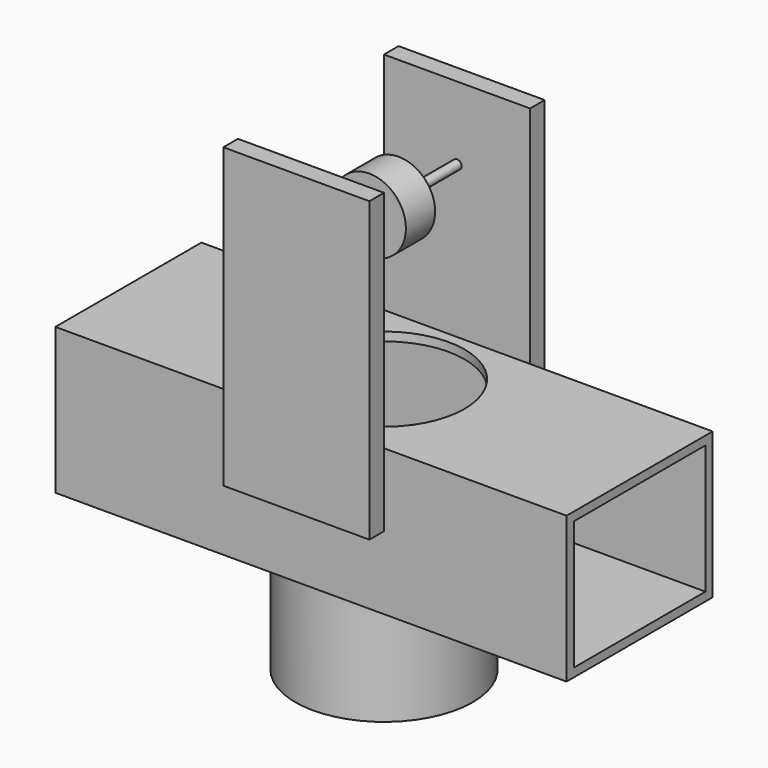
from build123d import *

# Parameters (mm, degrees)
F0_W      = 177.8
F0_H      = 50.8
F1_DEPTH  = 63.5
F2_W      = 50.8
F2_H      = 78.232
F3_DEPTH  = 6.35
F4_W      = 50.8
F4_H      = 78.232
F4_H_2    = 25.4
F5_DEPTH  = 6.35
F6_W      = 57.2448244095
F6_H      = 44.7886691809
F7_DEPTH  = 177.8
F8_R      = 28.0061768785
F9_DEPTH  = 50.801
F10_R     = 30.8612642365
F10_R_2   = 28.0061768785
F11_DEPTH = 38.1
F14_R     = 12.7
F15_DEPTH = 6.35
F16_R     = 1.5875
F17_DEPTH = 25.4
F18_R     = 1.5875
F19_DEPTH = 25.4


with BuildPart() as f1:
    # F0 (on Front) → F1 (new body)
    with BuildSketch(Plane.XZ):
        with Locations((88.9, 25.4)):
            Rectangle(F0_W, F0_H)
    extrude(amount=F1_DEPTH)

    # F2 (on face) → F3 (join)
    with BuildSketch(Plane.XZ.offset(63.5)):
        with Locations((88.9, 89.916)):
            Rectangle(F2_W, F2_H)
        Polygon((63.5, 25.4), (88.9, 25.4), (114.3, 25.4), (114.3, 50.8), (63.5, 50.8), align=None)
    extrude(amount=F3_DEPTH)

    # F4 (on face) → F5 (join)
    with BuildSketch(Plane(origin=(0, 0, 0), x_dir=(-1, 0, 0), z_dir=(0, 1, 0))):
        with Locations((-88.9, 89.916)):
            Rectangle(F4_W, F4_H)
        with Locations((-88.9, 38.1)):
            Rectangle(F4_W, F4_H_2)
    extrude(amount=F5_DEPTH)

    # F6 (on face) → F7 (cut, through all)
    with BuildSketch(Plane.YZ.offset(177.8)):
        with Locations((-31.75, 25.4)):
            Rectangle(F6_W, F6_H)
    extrude(amount=-F7_DEPTH, mode=Mode.SUBTRACT)

    # F8 (on face) → F9 (cut, through all)
    with BuildSketch(Plane.XY.offset(50.8)):
        with Locations((88.9, -31.75)):
            Circle(F8_R)
    extrude(amount=-F9_DEPTH, mode=Mode.SUBTRACT)

    # F10 (on face) → F11 (join)
    with BuildSketch(Plane(origin=(0, 0, 0), x_dir=(1, 0, 0), z_dir=(0, 0, -1))):
        with Locations((88.9, 31.75)):
            Circle(F10_R)
        with Locations((88.9, 31.75)):
            Circle(F10_R_2, mode=Mode.SUBTRACT)
    extrude(amount=F11_DEPTH)


with BuildPart() as f15:
    # F14 (on plane+point) → F15 (new body, symmetric)
    with BuildSketch(Plane.XZ.offset(31.75)):
        with Locations((88.9, 103.632)):
            Circle(F14_R)
    extrude(amount=F15_DEPTH, both=True)


with BuildPart() as f17:
    # F16 (on face) → F17 (new body, through all)
    with BuildSketch(Plane(origin=(0, -25.4, 0), x_dir=(-1, 0, 0), z_dir=(0, 1, 0))):
        with Locations((-88.9, 103.632)):
            Circle(F16_R)
    extrude(amount=F17_DEPTH)


with BuildPart() as f19:
    # F18 (on face) → F19 (new body, through all)
    with BuildSketch(Plane.XZ.offset(38.1)):
        with Locations((88.9, 103.632)):
            Circle(F18_R)
    extrude(amount=F19_DEPTH)


solid = Compound([f1.part, f15.part, f17.part, f19.part])
